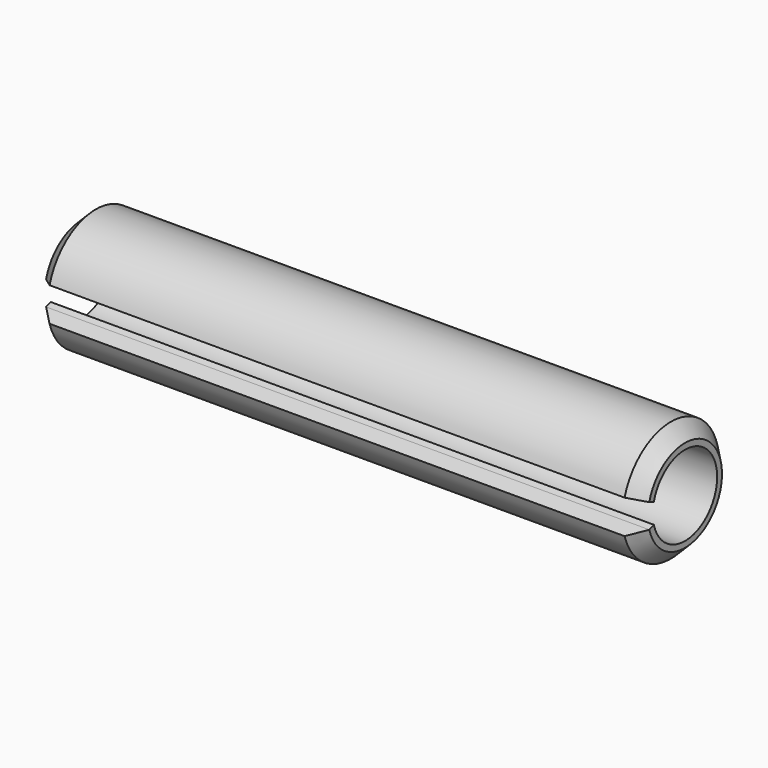
from build123d import *

# Parameters (mm, degrees)
F0_R     = 3
F1_DEPTH = 30
F2_SIZE  = 0.7
F4_DEPTH = 31


with BuildPart() as f1:
    # F0 (on Right) → F1 (new body)
    with BuildSketch(Plane.YZ):
        Circle(F0_R)
    extrude(amount=F1_DEPTH)

    # F2
    f2_edges = [f1.edges().sort_by_distance(p)[0] for p in [
        (30, -3, 0),
        (0, -3, 0),
    ]]
    chamfer(f2_edges, length=F2_SIZE)

    # F3 (on face) → F4 (cut)
    with BuildSketch(Plane.YZ.offset(30)):
        with BuildLine():
            Line((-3.31023, -1), (-2.219542, -0.603022))
            ThreePointArc((-2.219542, -0.603022), (-2.3, 0), (-2.219542, 0.603022))
            Line((-2.219542, 0.603022), (-3.31023, 1))
            Line((-3.31023, 1), (-3.31023, -1))
        make_face()
        with BuildLine():
            Line((-2.219542, -0.603022), (-1.936492, -0.5))
            ThreePointArc((-1.936492, -0.5), (2, 0), (-1.936492, 0.5))
            Line((-1.936492, 0.5), (-2.219542, 0.603022))
            ThreePointArc((-2.219542, 0.603022), (-2.3, 0), (-2.219542, -0.603022))
        make_face()
    extrude(amount=-F4_DEPTH, mode=Mode.SUBTRACT)


solid = f1.part
